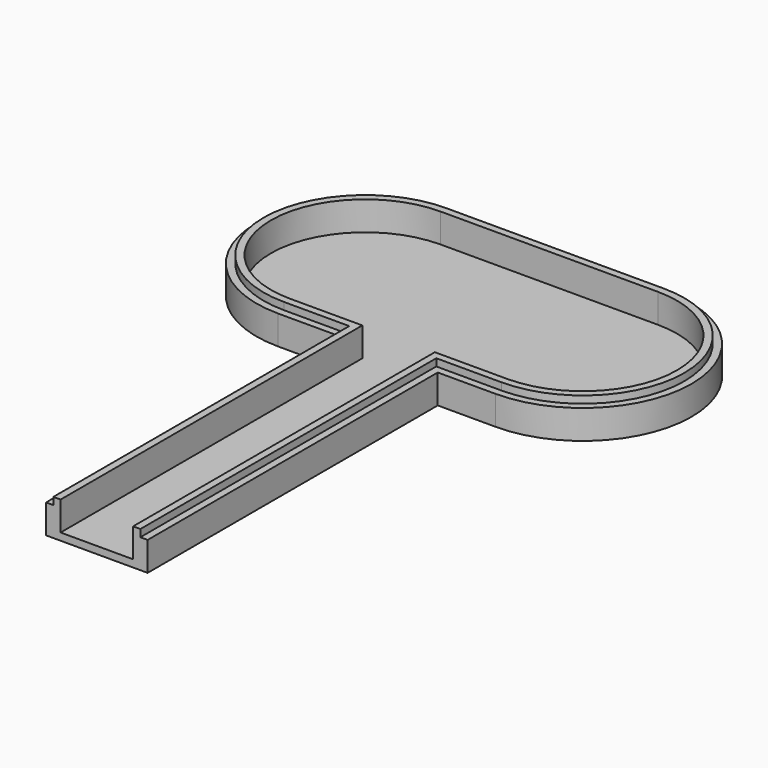
from build123d import *

# Parameters (mm, degrees)
PAD_DEPTH    = 4
PAD001_DEPTH = 5
POCKET_DEPTH = 4


with BuildPart() as part:
    # Sketch → Pad (new body)
    with BuildSketch(Plane.XY):
        with BuildLine():
            Line((-7, -50), (7, -50))
            Line((7, -50), (7, 0))
            Line((7, 0), (15, 0))
            ThreePointArc((15, 0), (30, 15), (15, 30))
            Line((15, 30), (-15, 30))
            ThreePointArc((-15, 30), (-30, 15), (-15, 0))
            Line((-15, 0), (-7, 0))
            Line((-7, 0), (-7, -50))
        make_face()
    extrude(amount=PAD_DEPTH)

    # Sketch001 → Pad001 (join)
    with BuildSketch(Plane.XY):
        with BuildLine():
            Line((-6, -50), (6, -50))
            Line((6, -50), (6, 1))
            Line((6, 1), (15, 1))
            ThreePointArc((15, 1), (29, 15), (15, 29))
            Line((15, 29), (-15, 29))
            ThreePointArc((-15, 29), (-29, 15), (-15, 1))
            Line((-15, 1), (-6, 1))
            Line((-6, 1), (-6, -50))
        make_face()
    extrude(amount=PAD001_DEPTH)

    # Sketch002 → Pocket (cut)
    with BuildSketch(Plane.XY.offset(5)):
        with BuildLine():
            Line((-5, -50), (5, -50))
            Line((5, -50), (5, 2))
            Line((5, 2), (15, 2))
            ThreePointArc((15, 2), (28, 15), (15, 28))
            Line((15, 28), (-15, 28))
            ThreePointArc((-15, 28), (-28, 15), (-15, 2))
            Line((-15, 2), (-5, 2))
            Line((-5, 2), (-5, -50))
        make_face()
    extrude(amount=-POCKET_DEPTH, mode=Mode.SUBTRACT)


solid = part.part
